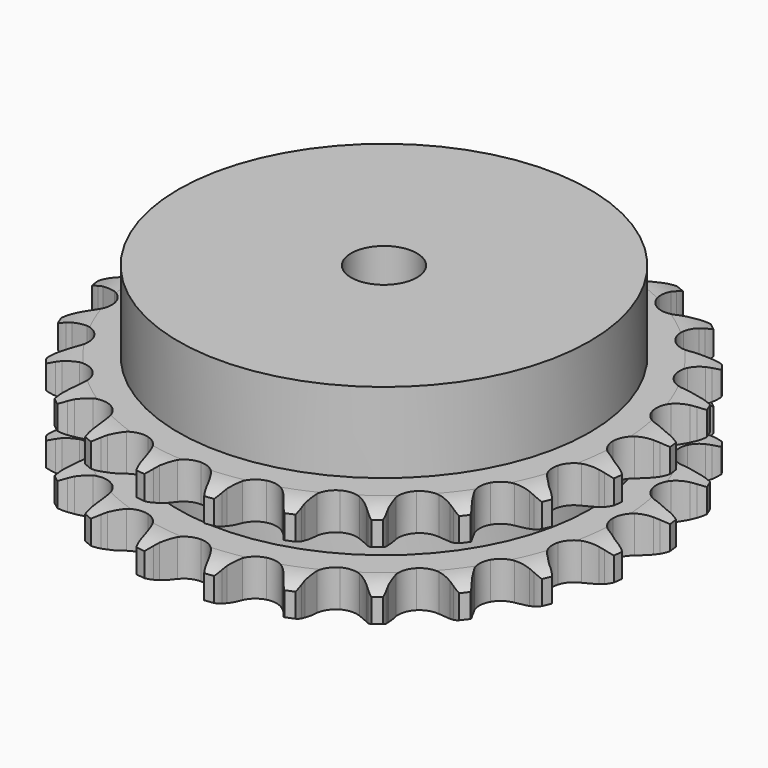
from build123d import *

# Parameters (mm, degrees)
PAD_DEPTH         = 25.5
SKETCH001_R       = 50
PAD001_DEPTH      = 45
SKETCH002_R       = 8
POCKET_DEPTH      = 0.001
POCKET_DEPTH_BACK = 45.001


with BuildPart() as part:
    # Sprocket → Pad (new body)
    with BuildSketch(Plane.XY):
        with BuildLine():
            ThreePointArc((-8.584098, 65.202695), (-7.289998, 63.758844), (-6.364469, 62.055084))
            Line((-6.364469, 62.055084), (-5.871154, 60.823786))
            ThreePointArc((-5.871154, 60.823786), (-5.083491, 59.190791), (-4.080613, 57.680385))
            ThreePointArc((-4.080613, 57.680385), (-2.274912, 56.198485), (0, 55.66805))
            ThreePointArc((0, 55.66805), (2.274912, 56.198485), (4.080613, 57.680385))
            ThreePointArc((4.080613, 57.680385), (5.083491, 59.190791), (5.871154, 60.823786))
            Line((5.871154, 60.823786), (6.364469, 62.055084))
            ThreePointArc((6.364469, 62.055084), (7.289998, 63.758844), (8.584098, 65.202695))
            ThreePointArc((8.584098, 65.202695), (9.460406, 63.473104), (9.913432, 61.587854))
            Line((9.913432, 61.587854), (10.071255, 60.270832))
            ThreePointArc((10.071255, 60.270832), (10.409429, 58.489617), (10.987213, 56.771114))
            ThreePointArc((10.987213, 56.771114), (12.347842, 54.872358), (14.407951, 53.771207))
            ThreePointArc((14.407951, 53.771207), (16.742634, 53.694777), (18.870352, 54.658833))
            Line((18.870352, 54.658833), (21.413454, 57.231699))
            ThreePointArc((21.413454, 57.231699), (21.797776, 57.772472), (22.208643, 58.293362))
            ThreePointArc((22.208643, 58.293362), (23.5436, 59.699524), (25.167301, 60.759239))
            ThreePointArc((25.167301, 60.759239), (25.566099, 58.861777), (25.51575, 56.923514))
            Line((25.51575, 56.923514), (25.327324, 55.610521))
            ThreePointArc((25.327324, 55.610521), (25.192963, 53.802474), (25.306278, 51.992985))
            ThreePointArc((25.306278, 51.992985), (26.129111, 49.806771), (27.834025, 48.209945))
            ThreePointArc((27.834025, 48.209945), (30.069374, 47.531859), (32.374107, 47.912372))
            Line((32.374107, 47.912372), (35.496462, 49.739367))
            ThreePointArc((35.496462, 49.739367), (36.007651, 50.162243), (36.539334, 50.559045))
            ThreePointArc((36.539334, 50.559045), (38.192745, 51.57178), (40.035394, 52.175141))
            ThreePointArc((40.035394, 52.175141), (39.929504, 50.239118), (39.379211, 48.37993))
            Line((39.379211, 48.37993), (38.857379, 47.160445))
            ThreePointArc((38.857379, 47.160445), (38.259639, 45.44878), (37.900762, 43.67162))
            ThreePointArc((37.900762, 43.67162), (38.129724, 41.346935), (39.363255, 39.363255))
            ThreePointArc((39.363255, 39.363255), (41.346935, 38.129724), (43.67162, 37.900762))
            Line((43.67162, 37.900762), (47.160445, 38.857379))
            ThreePointArc((47.160445, 38.857379), (47.763664, 39.13354), (48.37993, 39.379211))
            ThreePointArc((48.37993, 39.379211), (50.239118, 39.929504), (52.175141, 40.035394))
            ThreePointArc((52.175141, 40.035394), (51.57178, 38.192745), (50.559045, 36.539334))
            Line((50.559045, 36.539334), (49.739367, 35.496462))
            ThreePointArc((49.739367, 35.496462), (48.718983, 33.997827), (47.912372, 32.374107))
            ThreePointArc((47.912372, 32.374107), (47.531859, 30.069374), (48.209945, 27.834025))
            ThreePointArc((48.209945, 27.834025), (49.806771, 26.129111), (51.992985, 25.306278))
            Line((51.992985, 25.306278), (55.610521, 25.327324))
            ThreePointArc((55.610521, 25.327324), (56.264662, 25.437951), (56.923514, 25.51575))
            ThreePointArc((56.923514, 25.51575), (58.861777, 25.566099), (60.759239, 25.167301))
            ThreePointArc((60.759239, 25.167301), (59.699524, 23.5436), (58.293362, 22.208643))
            Line((58.293362, 22.208643), (57.231699, 21.413454))
            ThreePointArc((57.231699, 21.413454), (55.858209, 20.229979), (54.658833, 18.870352))
            ThreePointArc((54.658833, 18.870352), (53.694777, 16.742634), (53.771207, 14.407951))
            ThreePointArc((53.771207, 14.407951), (54.872358, 12.347842), (56.771114, 10.987213))
            Line((56.771114, 10.987213), (60.270832, 10.071255))
            ThreePointArc((60.270832, 10.071255), (60.931316, 10.008808), (61.587854, 9.913432))
            ThreePointArc((61.587854, 9.913432), (63.473104, 9.460406), (65.202695, 8.584098))
            ThreePointArc((65.202695, 8.584098), (63.758844, 7.289998), (62.055084, 6.364469))
            Line((62.055084, 6.364469), (60.823786, 5.871154))
            ThreePointArc((60.823786, 5.871154), (59.190791, 5.083491), (57.680385, 4.080613))
            ThreePointArc((57.680385, 4.080613), (56.198485, 2.274912), (55.66805, 0))
            ThreePointArc((55.66805, 0), (56.198485, -2.274912), (57.680385, -4.080613))
            Line((57.680385, -4.080613), (60.823786, -5.871154))
            ThreePointArc((60.823786, -5.871154), (61.445602, -6.102419), (62.055084, -6.364469))
            ThreePointArc((62.055084, -6.364469), (63.758844, -7.289998), (65.202695, -8.584098))
            ThreePointArc((65.202695, -8.584098), (63.473104, -9.460406), (61.587854, -9.913432))
            Line((61.587854, -9.913432), (60.270832, -10.071255))
            ThreePointArc((60.270832, -10.071255), (58.489617, -10.409429), (56.771114, -10.987213))
            ThreePointArc((56.771114, -10.987213), (54.872358, -12.347842), (53.771207, -14.407951))
            ThreePointArc((53.771207, -14.407951), (53.694777, -16.742634), (54.658833, -18.870352))
            Line((54.658833, -18.870352), (57.231699, -21.413454))
            ThreePointArc((57.231699, -21.413454), (57.772472, -21.797776), (58.293362, -22.208643))
            ThreePointArc((58.293362, -22.208643), (59.699524, -23.5436), (60.759239, -25.167301))
            ThreePointArc((60.759239, -25.167301), (58.861777, -25.566099), (56.923514, -25.51575))
            Line((56.923514, -25.51575), (55.610521, -25.327324))
            ThreePointArc((55.610521, -25.327324), (53.802474, -25.192963), (51.992985, -25.306278))
            ThreePointArc((51.992985, -25.306278), (49.806771, -26.129111), (48.209945, -27.834025))
            ThreePointArc((48.209945, -27.834025), (47.531859, -30.069374), (47.912372, -32.374107))
            Line((47.912372, -32.374107), (49.739367, -35.496462))
            ThreePointArc((49.739367, -35.496462), (50.162243, -36.007651), (50.559045, -36.539334))
            ThreePointArc((50.559045, -36.539334), (51.57178, -38.192745), (52.175141, -40.035394))
            ThreePointArc((52.175141, -40.035394), (50.239118, -39.929504), (48.37993, -39.379211))
            Line((48.37993, -39.379211), (47.160445, -38.857379))
            ThreePointArc((47.160445, -38.857379), (45.44878, -38.259639), (43.67162, -37.900762))
            ThreePointArc((43.67162, -37.900762), (41.346935, -38.129724), (39.363255, -39.363255))
            ThreePointArc((39.363255, -39.363255), (38.129724, -41.346935), (37.900762, -43.67162))
            Line((37.900762, -43.67162), (38.857379, -47.160445))
            ThreePointArc((38.857379, -47.160445), (39.13354, -47.763664), (39.379211, -48.37993))
            ThreePointArc((39.379211, -48.37993), (39.929504, -50.239118), (40.035394, -52.175141))
            ThreePointArc((40.035394, -52.175141), (38.192745, -51.57178), (36.539334, -50.559045))
            Line((36.539334, -50.559045), (35.496462, -49.739367))
            ThreePointArc((35.496462, -49.739367), (33.997827, -48.718983), (32.374107, -47.912372))
            ThreePointArc((32.374107, -47.912372), (30.069374, -47.531859), (27.834025, -48.209945))
            ThreePointArc((27.834025, -48.209945), (26.129111, -49.806771), (25.306278, -51.992985))
            Line((25.306278, -51.992985), (25.327324, -55.610521))
            ThreePointArc((25.327324, -55.610521), (25.437951, -56.264662), (25.51575, -56.923514))
            ThreePointArc((25.51575, -56.923514), (25.566099, -58.861777), (25.167301, -60.759239))
            ThreePointArc((25.167301, -60.759239), (23.5436, -59.699524), (22.208643, -58.293362))
            Line((22.208643, -58.293362), (21.413454, -57.231699))
            ThreePointArc((21.413454, -57.231699), (20.229979, -55.858209), (18.870352, -54.658833))
            ThreePointArc((18.870352, -54.658833), (16.742634, -53.694777), (14.407951, -53.771207))
            ThreePointArc((14.407951, -53.771207), (12.347842, -54.872358), (10.987213, -56.771114))
            Line((10.987213, -56.771114), (10.071255, -60.270832))
            ThreePointArc((10.071255, -60.270832), (10.008808, -60.931316), (9.913432, -61.587854))
            ThreePointArc((9.913432, -61.587854), (9.460406, -63.473104), (8.584098, -65.202695))
            ThreePointArc((8.584098, -65.202695), (7.289998, -63.758844), (6.364469, -62.055084))
            Line((6.364469, -62.055084), (5.871154, -60.823786))
            ThreePointArc((5.871154, -60.823786), (5.083491, -59.190791), (4.080613, -57.680385))
            ThreePointArc((4.080613, -57.680385), (2.274912, -56.198485), (0, -55.66805))
            ThreePointArc((0, -55.66805), (-2.274912, -56.198485), (-4.080613, -57.680385))
            Line((-4.080613, -57.680385), (-5.871154, -60.823786))
            ThreePointArc((-5.871154, -60.823786), (-6.102419, -61.445602), (-6.364469, -62.055084))
            ThreePointArc((-6.364469, -62.055084), (-7.289998, -63.758844), (-8.584098, -65.202695))
            ThreePointArc((-8.584098, -65.202695), (-9.460406, -63.473104), (-9.913432, -61.587854))
            Line((-9.913432, -61.587854), (-10.071255, -60.270832))
            ThreePointArc((-10.071255, -60.270832), (-10.409429, -58.489617), (-10.987213, -56.771114))
            ThreePointArc((-10.987213, -56.771114), (-12.347842, -54.872358), (-14.407951, -53.771207))
            ThreePointArc((-14.407951, -53.771207), (-16.742634, -53.694777), (-18.870352, -54.658833))
            Line((-18.870352, -54.658833), (-21.413454, -57.231699))
            ThreePointArc((-21.413454, -57.231699), (-21.797776, -57.772472), (-22.208643, -58.293362))
            ThreePointArc((-22.208643, -58.293362), (-23.5436, -59.699524), (-25.167301, -60.759239))
            ThreePointArc((-25.167301, -60.759239), (-25.566099, -58.861777), (-25.51575, -56.923514))
            Line((-25.51575, -56.923514), (-25.327324, -55.610521))
            ThreePointArc((-25.327324, -55.610521), (-25.192963, -53.802474), (-25.306278, -51.992985))
            ThreePointArc((-25.306278, -51.992985), (-26.129111, -49.806771), (-27.834025, -48.209945))
            ThreePointArc((-27.834025, -48.209945), (-30.069374, -47.531859), (-32.374107, -47.912372))
            Line((-32.374107, -47.912372), (-35.496462, -49.739367))
            ThreePointArc((-35.496462, -49.739367), (-36.007651, -50.162243), (-36.539334, -50.559045))
            ThreePointArc((-36.539334, -50.559045), (-38.192745, -51.57178), (-40.035394, -52.175141))
            ThreePointArc((-40.035394, -52.175141), (-39.929504, -50.239118), (-39.379211, -48.37993))
            Line((-39.379211, -48.37993), (-38.857379, -47.160445))
            ThreePointArc((-38.857379, -47.160445), (-38.259639, -45.44878), (-37.900762, -43.67162))
            ThreePointArc((-37.900762, -43.67162), (-38.129724, -41.346935), (-39.363255, -39.363255))
            ThreePointArc((-39.363255, -39.363255), (-41.346935, -38.129724), (-43.67162, -37.900762))
            Line((-43.67162, -37.900762), (-47.160445, -38.857379))
            ThreePointArc((-47.160445, -38.857379), (-47.763664, -39.13354), (-48.37993, -39.379211))
            ThreePointArc((-48.37993, -39.379211), (-50.239118, -39.929504), (-52.175141, -40.035394))
            ThreePointArc((-52.175141, -40.035394), (-51.57178, -38.192745), (-50.559045, -36.539334))
            Line((-50.559045, -36.539334), (-49.739367, -35.496462))
            ThreePointArc((-49.739367, -35.496462), (-48.718983, -33.997827), (-47.912372, -32.374107))
            ThreePointArc((-47.912372, -32.374107), (-47.531859, -30.069374), (-48.209945, -27.834025))
            ThreePointArc((-48.209945, -27.834025), (-49.806771, -26.129111), (-51.992985, -25.306278))
            Line((-51.992985, -25.306278), (-55.610521, -25.327324))
            ThreePointArc((-55.610521, -25.327324), (-56.264662, -25.437951), (-56.923514, -25.51575))
            ThreePointArc((-56.923514, -25.51575), (-58.861777, -25.566099), (-60.759239, -25.167301))
            ThreePointArc((-60.759239, -25.167301), (-59.699524, -23.5436), (-58.293362, -22.208643))
            Line((-58.293362, -22.208643), (-57.231699, -21.413454))
            ThreePointArc((-57.231699, -21.413454), (-55.858209, -20.229979), (-54.658833, -18.870352))
            ThreePointArc((-54.658833, -18.870352), (-53.694777, -16.742634), (-53.771207, -14.407951))
            ThreePointArc((-53.771207, -14.407951), (-54.872358, -12.347842), (-56.771114, -10.987213))
            Line((-56.771114, -10.987213), (-60.270832, -10.071255))
            ThreePointArc((-60.270832, -10.071255), (-60.931316, -10.008808), (-61.587854, -9.913432))
            ThreePointArc((-61.587854, -9.913432), (-63.473104, -9.460406), (-65.202695, -8.584098))
            ThreePointArc((-65.202695, -8.584098), (-63.758844, -7.289998), (-62.055084, -6.364469))
            Line((-62.055084, -6.364469), (-60.823786, -5.871154))
            ThreePointArc((-60.823786, -5.871154), (-59.190791, -5.083491), (-57.680385, -4.080613))
            ThreePointArc((-57.680385, -4.080613), (-56.198485, -2.274912), (-55.66805, 0))
            ThreePointArc((-55.66805, 0), (-56.198485, 2.274912), (-57.680385, 4.080613))
            Line((-57.680385, 4.080613), (-60.823786, 5.871154))
            ThreePointArc((-60.823786, 5.871154), (-61.445602, 6.102419), (-62.055084, 6.364469))
            ThreePointArc((-62.055084, 6.364469), (-63.758844, 7.289998), (-65.202695, 8.584098))
            ThreePointArc((-65.202695, 8.584098), (-63.473104, 9.460406), (-61.587854, 9.913432))
            Line((-61.587854, 9.913432), (-60.270832, 10.071255))
            ThreePointArc((-60.270832, 10.071255), (-58.489617, 10.409429), (-56.771114, 10.987213))
            ThreePointArc((-56.771114, 10.987213), (-54.872358, 12.347842), (-53.771207, 14.407951))
            ThreePointArc((-53.771207, 14.407951), (-53.694777, 16.742634), (-54.658833, 18.870352))
            Line((-54.658833, 18.870352), (-57.231699, 21.413454))
            ThreePointArc((-57.231699, 21.413454), (-57.772472, 21.797776), (-58.293362, 22.208643))
            ThreePointArc((-58.293362, 22.208643), (-59.699524, 23.5436), (-60.759239, 25.167301))
            ThreePointArc((-60.759239, 25.167301), (-58.861777, 25.566099), (-56.923514, 25.51575))
            Line((-56.923514, 25.51575), (-55.610521, 25.327324))
            ThreePointArc((-55.610521, 25.327324), (-53.802474, 25.192963), (-51.992985, 25.306278))
            ThreePointArc((-51.992985, 25.306278), (-49.806771, 26.129111), (-48.209945, 27.834025))
            ThreePointArc((-48.209945, 27.834025), (-47.531859, 30.069374), (-47.912372, 32.374107))
            Line((-47.912372, 32.374107), (-49.739367, 35.496462))
            ThreePointArc((-49.739367, 35.496462), (-50.162243, 36.007651), (-50.559045, 36.539334))
            ThreePointArc((-50.559045, 36.539334), (-51.57178, 38.192745), (-52.175141, 40.035394))
            ThreePointArc((-52.175141, 40.035394), (-50.239118, 39.929504), (-48.37993, 39.379211))
            Line((-48.37993, 39.379211), (-47.160445, 38.857379))
            ThreePointArc((-47.160445, 38.857379), (-45.44878, 38.259639), (-43.67162, 37.900762))
            ThreePointArc((-43.67162, 37.900762), (-41.346935, 38.129724), (-39.363255, 39.363255))
            ThreePointArc((-39.363255, 39.363255), (-38.129724, 41.346935), (-37.900762, 43.67162))
            Line((-37.900762, 43.67162), (-38.857379, 47.160445))
            ThreePointArc((-38.857379, 47.160445), (-39.13354, 47.763664), (-39.379211, 48.37993))
            ThreePointArc((-39.379211, 48.37993), (-39.929504, 50.239118), (-40.035394, 52.175141))
            ThreePointArc((-40.035394, 52.175141), (-38.192745, 51.57178), (-36.539334, 50.559045))
            Line((-36.539334, 50.559045), (-35.496462, 49.739367))
            ThreePointArc((-35.496462, 49.739367), (-33.997827, 48.718983), (-32.374107, 47.912372))
            ThreePointArc((-32.374107, 47.912372), (-30.069374, 47.531859), (-27.834025, 48.209945))
            ThreePointArc((-27.834025, 48.209945), (-26.129111, 49.806771), (-25.306278, 51.992985))
            Line((-25.306278, 51.992985), (-25.327324, 55.610521))
            ThreePointArc((-25.327324, 55.610521), (-25.437951, 56.264662), (-25.51575, 56.923514))
            ThreePointArc((-25.51575, 56.923514), (-25.566099, 58.861777), (-25.167301, 60.759239))
            ThreePointArc((-25.167301, 60.759239), (-23.5436, 59.699524), (-22.208643, 58.293362))
            Line((-22.208643, 58.293362), (-21.413454, 57.231699))
            ThreePointArc((-21.413454, 57.231699), (-20.229979, 55.858209), (-18.870352, 54.658833))
            ThreePointArc((-18.870352, 54.658833), (-16.742634, 53.694777), (-14.407951, 53.771207))
            ThreePointArc((-14.407951, 53.771207), (-12.347842, 54.872358), (-10.987213, 56.771114))
            Line((-10.987213, 56.771114), (-10.071255, 60.270832))
            ThreePointArc((-10.071255, 60.270832), (-10.008808, 60.931316), (-9.913432, 61.587854))
            ThreePointArc((-9.913432, 61.587854), (-9.460406, 63.473104), (-8.584098, 65.202695))
        make_face()
    extrude(amount=PAD_DEPTH)

    # Sketch → Groove (revolve, cut)
    with BuildSketch(Plane.XZ):
        with BuildLine():
            ThreePointArc((57.175762, 0), (60.75347, 0.405129), (64.15, 1.6))
            Line((64.15, 1.6), (64.15, 7.4))
            ThreePointArc((64.15, 7.4), (60.75347, 8.594871), (57.175762, 9))
            Line((50, 9), (57.175762, 9))
            Line((50, 16.5), (50, 9))
            Line((57.175762, 16.5), (50, 16.5))
            ThreePointArc((57.175762, 16.5), (60.75347, 16.905129), (64.15, 18.1))
            Line((64.15, 18.1), (64.15, 23.9))
            ThreePointArc((64.15, 23.9), (60.75347, 25.094871), (57.175762, 25.5))
            Line((57.175762, 25.5), (67.175762, 25.5))
            Line((67.175762, 25.5), (67.175762, 0))
            Line((57.175762, 0), (67.175762, 0))
        make_face()
    revolve(axis=Axis((0, 0, 0), (0, 0, 1)), mode=Mode.SUBTRACT)

    # Sketch001 → Pad001 (join)
    with BuildSketch(Plane.XY):
        Circle(SKETCH001_R)
    extrude(amount=PAD001_DEPTH)

    # Sketch002 → Pocket (cut, two sides)
    with BuildSketch(Plane.XY) as pocket_sk:
        Circle(SKETCH002_R)
    extrude(amount=-POCKET_DEPTH, mode=Mode.SUBTRACT)
    extrude(pocket_sk.sketch, amount=POCKET_DEPTH_BACK, mode=Mode.SUBTRACT)


solid = part.part
